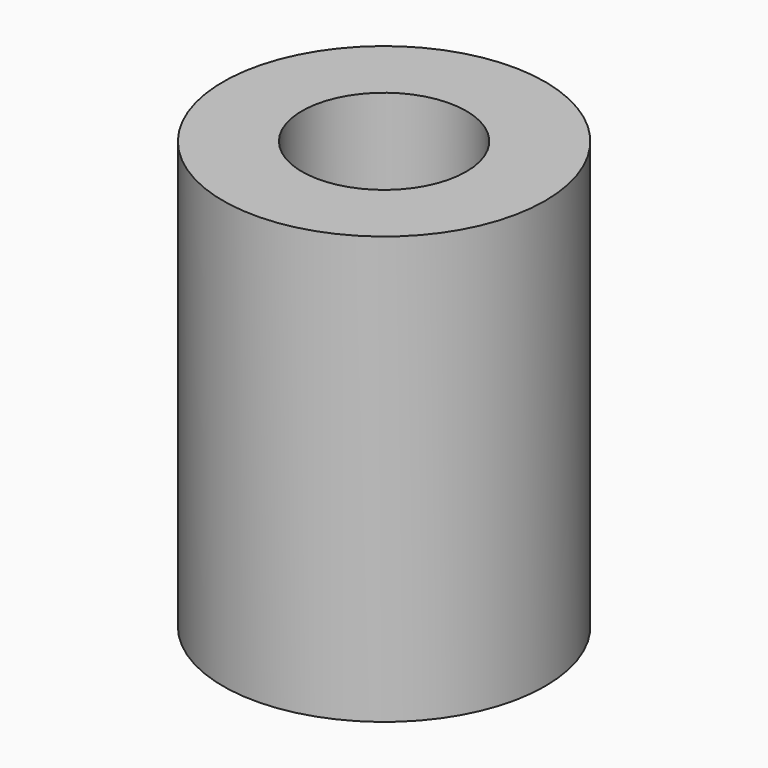
from build123d import *

# Parameters (mm, degrees)
SKETCH_R   = 4.9
SKETCH_R_2 = 2.5
PAD_DEPTH  = 13


with BuildPart() as part:
    # Sketch → Pad (new body)
    with BuildSketch(Plane.XY):
        Circle(SKETCH_R)
        Circle(SKETCH_R_2, mode=Mode.SUBTRACT)
    extrude(amount=PAD_DEPTH)


solid = part.part
